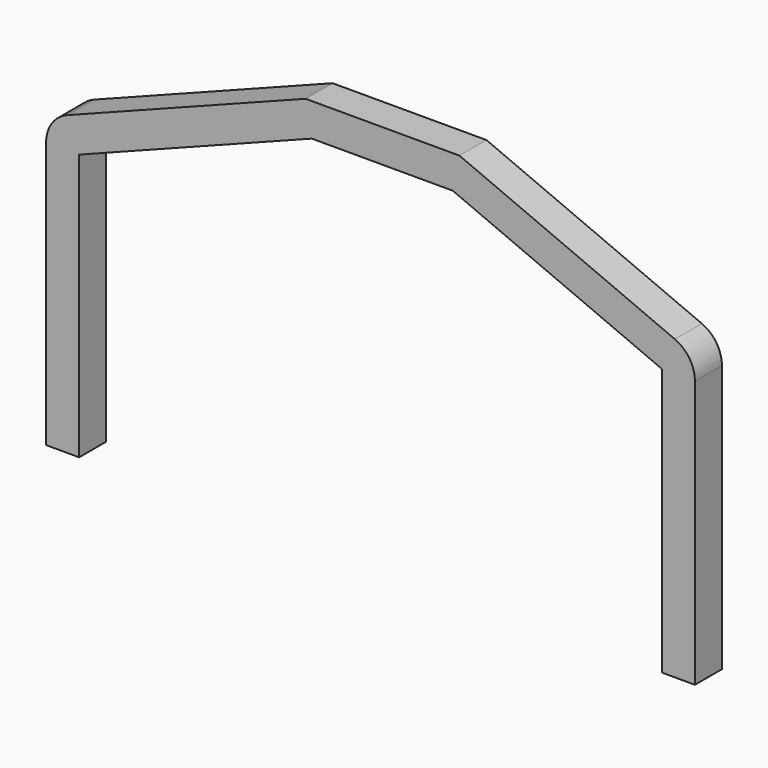
from build123d import *

# Parameters (mm, degrees)
F1_DEPTH = 5.1


with BuildPart() as f1:
    # F0 (on Front) → F1 (new body)
    with BuildSketch(Plane.XZ):
        with BuildLine():
            Line((-50.725091, 40.288387), (-50.725091, 0))
            Line((-50.725091, 0), (-45.725091, 0))
            Line((-45.725091, 0), (-45.725091, 40.288387))
            Line((-45.725091, 40.288387), (-10.55935, 53.852315))
            Line((-10.55935, 53.852315), (10.75161, 53.852315))
            Line((10.75161, 53.852315), (42.3621, 40.411634))
            Line((42.3621, 40.411634), (42.3621, 0))
            Line((42.3621, 0), (47.3621, 0))
            Line((47.3621, 0), (47.3621, 40.411634))
            ThreePointArc((47.3621, 40.411634), (46.532373, 43.170044), (44.318571, 45.012962))
            Line((44.318571, 45.012962), (11.770464, 58.852315))
            Line((11.770464, 58.852315), (-11.490214, 58.852315))
            Line((-11.490214, 58.852315), (-47.524451, 44.953396))
            ThreePointArc((-47.524451, 44.953396), (-49.848003, 43.117097), (-50.725091, 40.288387))
        make_face()
    extrude(amount=F1_DEPTH)


with BuildPart() as f2_1:
    # F2: copy of F1
    add(f1.part)


solid = Compound([f1.part, f2_1.part])
